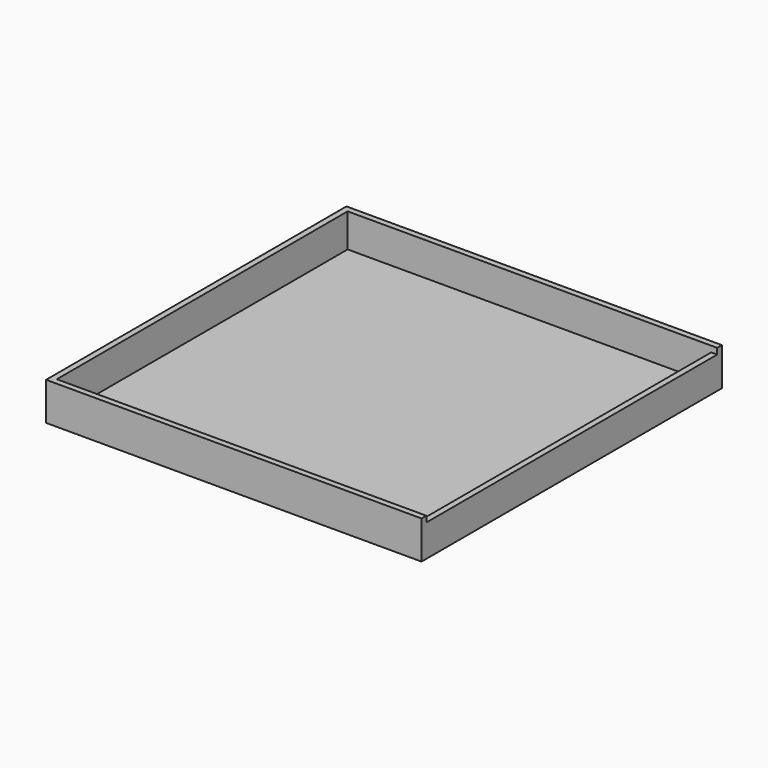
from build123d import *

# Parameters (mm, degrees)
F0_W     = 320.04
F0_H     = 320.04
F1_DEPTH = 32.385
F2_W     = 309.88
F2_H     = 309.88
F3_DEPTH = 28.575
F4_W     = 5.08
F4_H     = 309.88
F5_DEPTH = 5.08


with BuildPart() as f1:
    # F0 (on Top) → F1 (new body)
    with BuildSketch(Plane.XY):
        Rectangle(F0_W, F0_H)
    extrude(amount=F1_DEPTH)

    # F2 (on face) → F3 (cut)
    with BuildSketch(Plane.XY.offset(32.385)):
        Rectangle(F2_W, F2_H)
    extrude(amount=-F3_DEPTH, mode=Mode.SUBTRACT)

    # F4 (on face) → F5 (cut)
    with BuildSketch(Plane.XY.offset(32.385)):
        with Locations((157.48, 0)):
            Rectangle(F4_W, F4_H)
    extrude(amount=-F5_DEPTH, mode=Mode.SUBTRACT)


solid = f1.part
